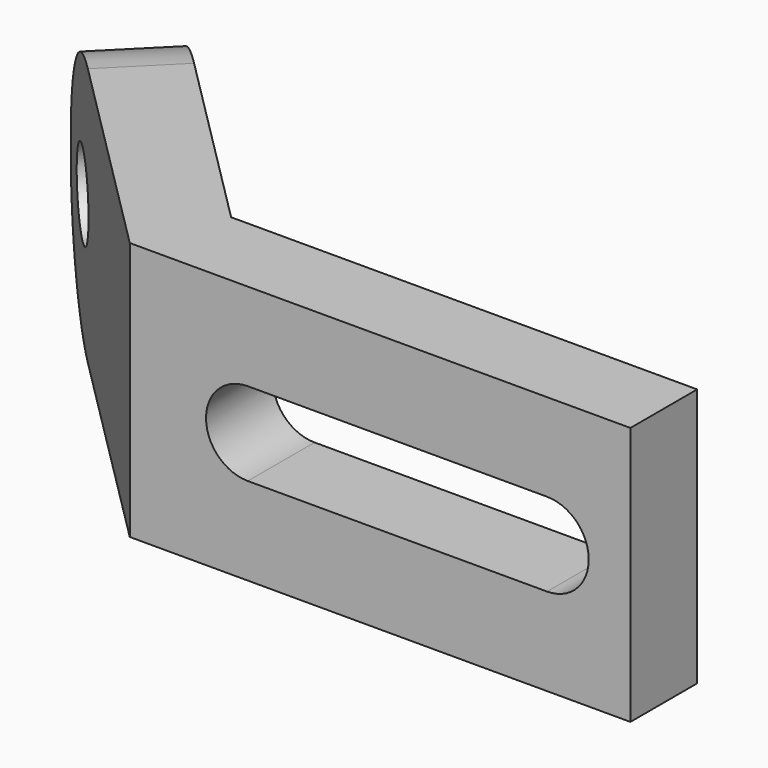
from build123d import *

# Parameters (mm, degrees)
F1_DEPTH = 61.976
F3_DEPTH = 35.814
F4_R     = 9.9949
F5_DEPTH = 42.926
F6_R     = 28.820882


with BuildPart() as f1:
    # F0 (on Top) → F1 (new body)
    with BuildSketch(Plane.XY):
        Polygon((-119.888, 0), (0, 0), (0, 19.9898), (-111.607954, 19.9898), (-176.33789, 84.719736), (-190.472813, 70.584813), align=None)
    extrude(amount=F1_DEPTH)

    # F2 (on face) → F3 (cut)
    with BuildSketch(Plane(origin=(0, 19.9898, 0), x_dir=(-1, 0, 0), z_dir=(0, 1, 0))):
        with BuildLine():
            Line((91.630854, 40.9829), (19.9771, 40.9829))
            ThreePointArc((19.9771, 40.9829), (9.9822, 30.988), (19.9771, 20.9931))
            Line((19.9771, 20.9931), (91.630854, 20.9931))
            ThreePointArc((91.630854, 20.9931), (101.625754, 30.988), (91.630854, 40.9829))
        make_face()
    extrude(amount=-F3_DEPTH, mode=Mode.SUBTRACT)

    # F4 (on face) → F5 (cut)
    with BuildSketch(Plane(origin=(-45.809077, -45.809077, 0), x_dir=(-0.707107, 0.707107, 0), z_dir=(0.707107, 0.707107, 0))):
        with Locations((164.618518, 30.988)):
            Circle(F4_R)
    extrude(amount=-F5_DEPTH, mode=Mode.SUBTRACT)

    # F6
    f6_edges = [f1.edges().sort_by_distance(p)[0] for p in [
        (-183.405352, 77.652275, 0),
        (-183.405352, 77.652275, 61.976),
    ]]
    fillet(f6_edges, radius=F6_R)


solid = f1.part
